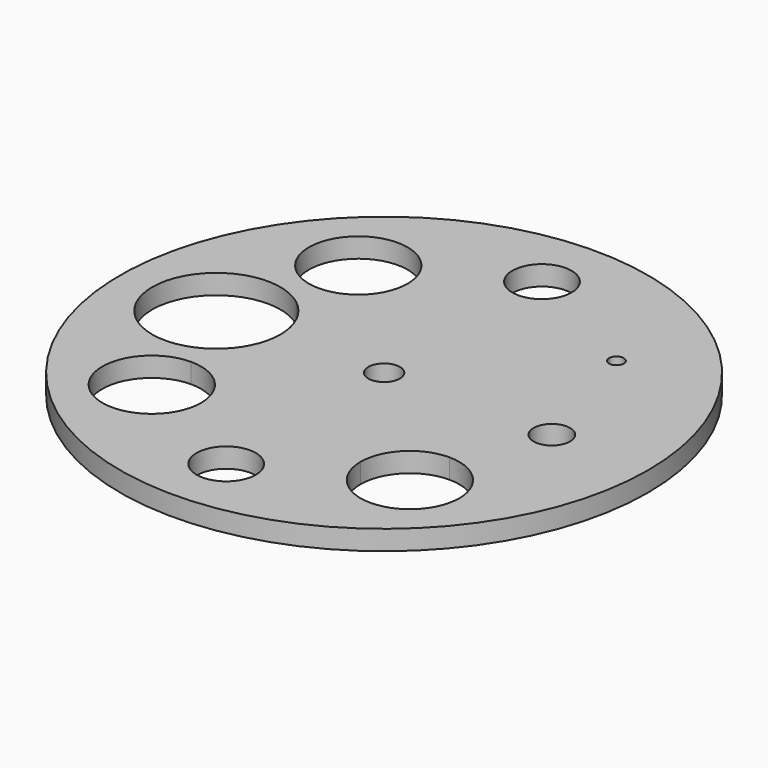
from build123d import *

# Parameters (mm, degrees)
F0_R     = 26.75
F0_R_2   = 3
F0_R_3   = 1.85
F0_R_4   = 1.6
F1_DEPTH = 2


with BuildPart() as f1:
    # F0 (on Top) → F1 (new body)
    with BuildSketch(Plane.XY):
        Circle(F0_R)
        with Locations((0, -20)):
            Circle(F0_R_2, mode=Mode.SUBTRACT)
        with BuildLine():
            ThreePointArc((-13.081475, 8.081475), (-16.617009, 16.617009), (-8.081475, 13.081475))
            Line((-8.081475, 13.081475), (12.331475, 13.081475))
            ThreePointArc((12.331475, 13.081475), (13.081475, 13.831475), (13.831475, 13.081475))
            ThreePointArc((13.831475, 13.081475), (13.611806, 12.551145), (13.081475, 12.331475))
            Line((13.081475, 12.331475), (13.081475, -8.081475))
            ThreePointArc((13.081475, -8.081475), (16.617009, -9.545942), (18.081475, -13.081475))
            ThreePointArc((18.081475, -13.081475), (13.081475, -18.081475), (8.081475, -13.081475))
            Line((8.081475, -13.081475), (-8.081475, -13.081475))
            ThreePointArc((-8.081475, -13.081475), (-16.617009, -16.617009), (-13.081475, -8.081475))
            Line((-13.081475, -8.081475), (-13.081475, -5.186055))
            ThreePointArc((-13.081475, -5.186055), (-23.5, 0), (-13.081475, 5.186055))
            Line((-13.081475, 5.186055), (-13.081475, 8.081475))
        make_face(mode=Mode.SUBTRACT)
        with Locations((17, 0)):
            Circle(F0_R_3, mode=Mode.SUBTRACT)
        with Locations((0, 20)):
            Circle(F0_R_2, mode=Mode.SUBTRACT)
        with BuildLine():
            Line((12.331475, 13.081475), (-8.081475, 13.081475))
            ThreePointArc((-8.081475, 13.081475), (-9.545942, 9.545942), (-13.081475, 8.081475))
            Line((-13.081475, 8.081475), (-13.081475, 5.186055))
            ThreePointArc((-13.081475, 5.186055), (-11.181048, 2.896514), (-10.5, 0))
            ThreePointArc((-10.5, 0), (-11.181048, -2.896514), (-13.081475, -5.186055))
            Line((-13.081475, -5.186055), (-13.081475, -8.081475))
            ThreePointArc((-13.081475, -8.081475), (-9.545942, -9.545942), (-8.081475, -13.081475))
            Line((-8.081475, -13.081475), (8.081475, -13.081475))
            ThreePointArc((8.081475, -13.081475), (9.545942, -9.545942), (13.081475, -8.081475))
            Line((13.081475, -8.081475), (13.081475, 12.331475))
            ThreePointArc((13.081475, 12.331475), (12.551145, 12.551145), (12.331475, 13.081475))
        make_face()
        Circle(F0_R_4, mode=Mode.SUBTRACT)
    extrude(amount=F1_DEPTH)


solid = f1.part
